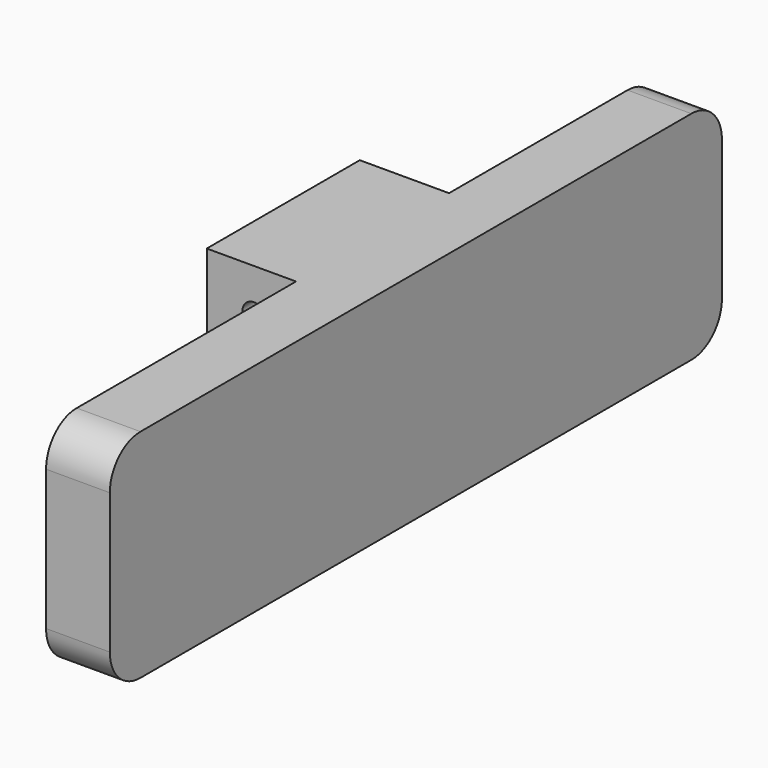
from build123d import *

# Parameters (mm, degrees)
CYLINDER950_R          = 0.9
CYLINDER950_DEPTH      = 15
CYLINDER950_ROLL_ANGLE = 90
CYLINDER951_R          = 0.9
CYLINDER951_DEPTH      = 15
CYLINDER951_ROLL_ANGLE = 90
BOX558_W               = 5
BOX558_H               = 60
BOX558_DEPTH           = 17
BOX557_W               = 7
BOX557_H               = 15
BOX557_DEPTH           = 17
FILLET357_R            = 3


with BuildPart() as cylinder1101:
    # Cylinder950 → Cylinder950 (new body)
    with BuildSketch(Plane.XY):
        Circle(CYLINDER950_R)
    extrude(amount=CYLINDER950_DEPTH)


with BuildPart() as cylinder1101_1:
    # Cylinder950 roll: moved
    add(cylinder1101.part.rotate(Axis((0, 0, 0), (1, 0, 0)), CYLINDER950_ROLL_ANGLE))


with BuildPart() as cylinder1101_2:
    # Cylinder950 placement: moved
    add(cylinder1101_1.part.moved(Location((27, 85, -10.2))))


with BuildPart() as fusion596:
    # Cylinder951 → Cylinder951 (new body)
    with BuildSketch(Plane.XY):
        Circle(CYLINDER951_R)
    extrude(amount=CYLINDER951_DEPTH)


with BuildPart() as fusion596_1:
    # Cylinder951 roll: moved
    add(fusion596.part.rotate(Axis((0, 0, 0), (1, 0, 0)), CYLINDER951_ROLL_ANGLE))


with BuildPart() as fusion596_2:
    # Cylinder951 placement: moved
    add(fusion596_1.part.moved(Location((27, 85, 0))))

    # Fusion596: union Cylinder1101
    add(cylinder1101_2.part)


with BuildPart() as fusion596_3:
    # Fusion596 placement: moved
    add(fusion596_2.part.moved(Location((44.2, 9.5, -5.9))))


with BuildPart() as cube749:
    # Box558 → Box558 (new body)
    with BuildSketch(Plane(origin=(74.5, 55, -19.5), x_dir=(1, 0, 0), z_dir=(0, 0, 1))):
        with Locations((2.5, 30)):
            Rectangle(BOX558_W, BOX558_H)
    extrude(amount=BOX558_DEPTH)


with BuildPart() as steering_servo_rear_mount:
    # Box557 → Box557 (new body)
    with BuildSketch(Plane(origin=(67.5, 79.5, -19.5), x_dir=(1, 0, 0), z_dir=(0, 0, 1))):
        with Locations((3.5, 7.5)):
            Rectangle(BOX557_W, BOX557_H)
    extrude(amount=BOX557_DEPTH)

    # Fusion597: union Cube749
    add(cube749.part)

    # Cut695: cut Fusion596
    add(fusion596_3.part, mode=Mode.SUBTRACT)

    # Fillet357
    fillet357_edges = [steering_servo_rear_mount.edges().sort_by_distance(p)[0] for p in [
        (77, 55, -2.5),
        (77, 115, -2.5),
        (77, 115, -19.5),
        (77, 55, -19.5),
    ]]
    fillet(fillet357_edges, radius=FILLET357_R)


with BuildPart() as steering_servo_rear_mount_1:
    # Fillet357 placement: moved
    add(steering_servo_rear_mount.part.moved(Location((1, 0, 0))))


solid = steering_servo_rear_mount_1.part
